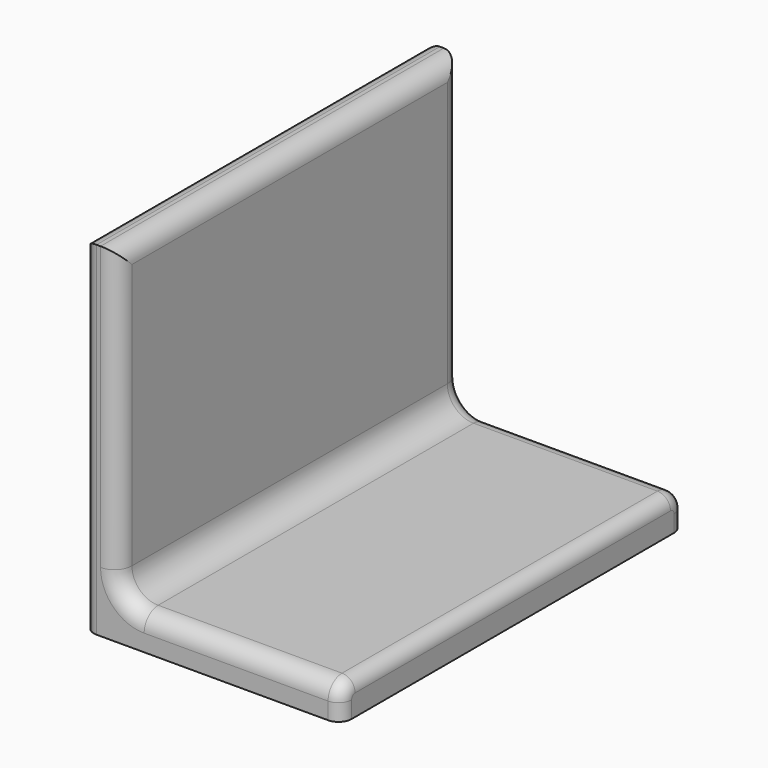
from build123d import *

# Parameters (mm, degrees)
F1_DEPTH = 25
F2_R     = 1.016
F3_R     = 0.75
F4_R     = 0.762


with BuildPart() as f1:
    # F0 (on Front) → F1 (new body)
    with BuildSketch(Plane.XZ):
        with BuildLine():
            Line((-15, 0), (0, 0))
            Line((0, 0), (0, 2))
            Line((0, 2), (-11.476, 2))
            ThreePointArc((-11.476, 2), (-12.5536307345, 2.4463692655), (-13, 3.524))
            Line((-13, 3.524), (-13, 20))
            Line((-13, 20), (-15, 20))
            Line((-15, 20), (-15, 0))
        make_face()
    extrude(amount=F1_DEPTH)

    # F2
    f2_edges = [f1.edges().sort_by_distance(p)[0] for p in [
        (-13, -12.5, 3.524),
        (-13, -12.5, 20),
        (-13, 0, 11.762),
        (-13, -25, 11.762),
    ]]
    fillet(f2_edges, radius=F2_R)

    # F3
    f3_edges = [f1.edges().sort_by_distance(p)[0] for p in [
        (-15, 0, 10),
        (-15, -12.5, 20),
        (-15, -25, 10),
    ]]
    fillet(f3_edges, radius=F3_R)

    # F4
    f4_edges = [f1.edges().sort_by_distance(p)[0] for p in [
        (0, -25, 0.492),
        (0, -24.70242, 1.70242),
        (0, -12.5, 2),
        (0, -0.29758, 1.70242),
        (0, 0, 0.492),
    ]]
    fillet(f4_edges, radius=F4_R)


solid = f1.part
